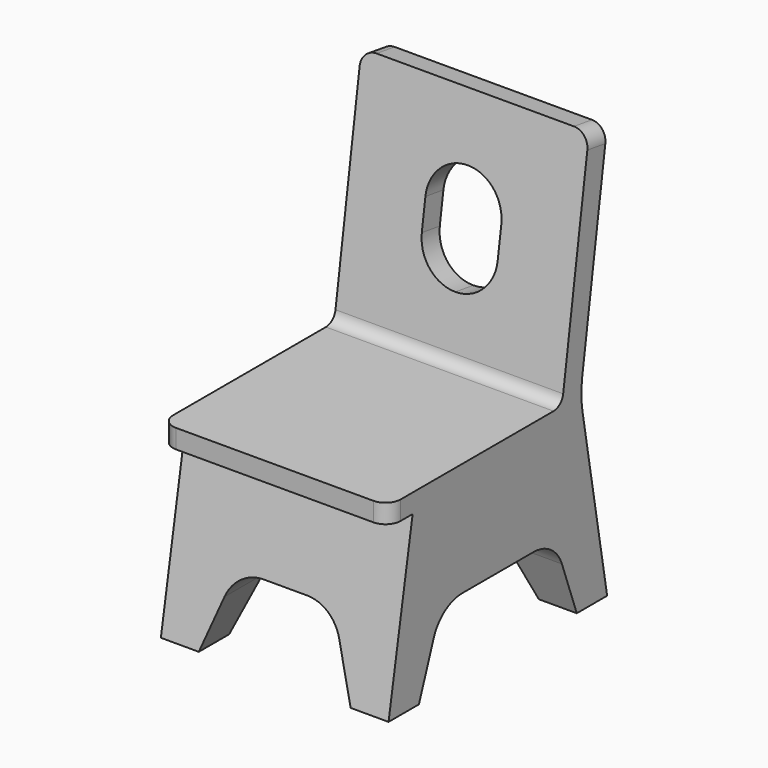
from build123d import *

# Parameters (mm, degrees)
F1_DEPTH      = 19.05
F3_DEPTH      = 5.5993816375
F3_DEPTH_BACK = 40.1226183625
F5_DEPTH      = 14.0315074599
F6_R          = 2.54


with BuildPart() as f1:
    # F0 (on Right) → F1 (new body, symmetric)
    with BuildSketch(Plane.YZ):
        with BuildLine():
            ThreePointArc((0.4305788672, -2.4419341014), (0.2003852832, 0.0026537646), (0.365760616, 2.4524802728))
            Line((0.365760616, 2.4524802728), (5.5983816375, 37.5379959634))
            Line((5.5983816375, 37.5379959634), (1.8300595357, 38.1))
            Line((1.8300595357, 38.1), (-3.5937905479, 1.7322645138))
            ThreePointArc((-3.5937905479, 1.7322645138), (-4.276919676, 0.4928303362), (-5.6035623355, 0))
            Line((-5.6035623355, 0), (-40.1216183625, 0))
            Line((-40.1216183625, 0), (-40.1216183625, -3.175))
            Line((-40.1216183625, -3.175), (-35.0830748888, -3.175))
            Line((-35.0830748888, -3.175), (-40.1216183625, -31.75))
            Line((-40.1216183625, -31.75), (-33.7716183625, -31.75))
            Line((-33.7716183625, -31.75), (-30.6699266617, -23.2281720899))
            ThreePointArc((-30.6699266617, -23.2281720899), (-28.3450888905, -20.1983845188), (-24.7028785197, -19.05))
            Line((-24.7028785197, -19.05), (-9.8203582053, -19.05))
            ThreePointArc((-9.8203582053, -19.05), (-6.1781478345, -20.1983845188), (-3.8533100633, -23.2281720899))
            Line((-3.8533100633, -23.2281720899), (-0.7516183625, -31.75))
            Line((-0.7516183625, -31.75), (5.5983816375, -31.75))
            Line((5.5983816375, -31.75), (0.4305788672, -2.4419341014))
        make_face()
    extrude(amount=F1_DEPTH, both=True)

    # F2 (on Front) → F3 (cut, two sides)
    with BuildSketch(Plane.XZ) as f3_sk:
        with BuildLine():
            Line((-9.5983082992, -23.2281720899), (-12.7, -31.75))
            Line((-12.7, -31.75), (0, -31.75))
            Line((0, -31.75), (12.7, -31.75))
            Line((12.7, -31.75), (9.5983082992, -23.2281720899))
            ThreePointArc((9.5983082992, -23.2281720899), (7.273470528, -20.1983845188), (3.6312601572, -19.05))
            Line((3.6312601572, -19.05), (0, -19.05))
            Line((0, -19.05), (-3.6312601572, -19.05))
            ThreePointArc((-3.6312601572, -19.05), (-7.273470528, -20.1983845188), (-9.5983082992, -23.2281720899))
        make_face()
    extrude(amount=-F3_DEPTH, mode=Mode.SUBTRACT)
    extrude(f3_sk.sketch, amount=F3_DEPTH_BACK, mode=Mode.SUBTRACT)

    # F4 (on face) → F5 (cut, through all)
    with BuildSketch(Plane(origin=(0, -3.7683221018, 0.5620040366), x_dir=(1, 0, 0), z_dir=(0, -0.9890609191, 0.1475076212))):
        with BuildLine():
            ThreePointArc((0, 27.3717801606), (-4.4901280605, 25.5119082211), (-6.35, 21.0217801606))
            Line((-6.35, 21.0217801606), (-6.35, 15.9417801606))
            ThreePointArc((-6.35, 15.9417801606), (-4.4901280605, 11.4516521), (0, 9.5917801606))
            ThreePointArc((0, 9.5917801606), (4.4901280605, 11.4516521), (6.35, 15.9417801606))
            Line((6.35, 15.9417801606), (6.35, 21.0217801606))
            ThreePointArc((6.35, 21.0217801606), (4.4901280605, 25.5119082211), (0, 27.3717801606))
        make_face()
    extrude(amount=-F5_DEPTH, mode=Mode.SUBTRACT)

    # F6
    f6_edges = [f1.edges().sort_by_distance(p)[0] for p in [
        (19.05, 3.714221, 37.818998),
        (-19.05, 3.714221, 37.818998),
        (-19.05, -40.121618, -1.5875),
        (19.05, -40.121618, -1.5875),
    ]]
    fillet(f6_edges, radius=F6_R)


solid = f1.part
